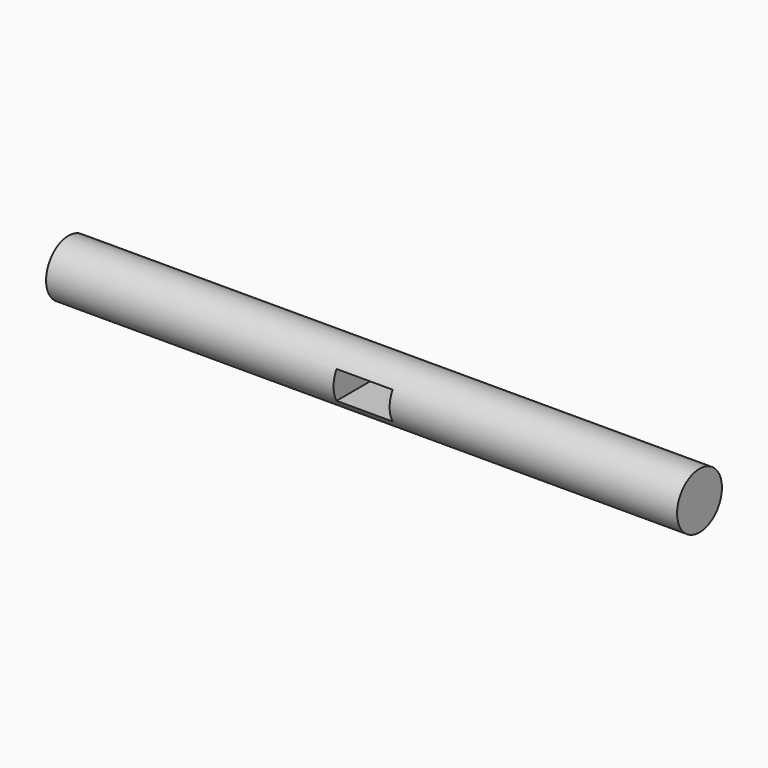
from build123d import *

# Parameters (mm, degrees)
F0_W     = 114.3
F0_H     = 5.08
F2_W     = 10.16
F2_H     = 5.08
F3_DEPTH = 12.7


with BuildPart() as f1:
    # F0 (on Front) → F1 (revolve)
    with BuildSketch(Plane.XZ):
        with Locations((0, 2.54)):
            Rectangle(F0_W, F0_H)
    revolve(axis=Axis((0, 0, 0), (1, 0, 0)))

    # F2 (on Front) → F3 (cut, symmetric)
    with BuildSketch(Plane.XZ):
        Rectangle(F2_W, F2_H)
    extrude(amount=F3_DEPTH, both=True, mode=Mode.SUBTRACT)


solid = f1.part
